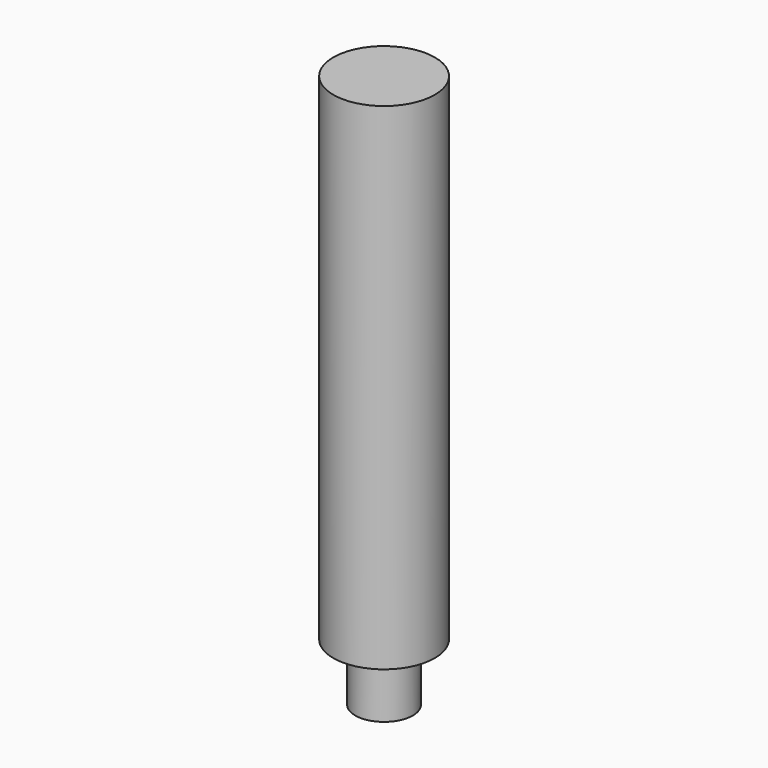
from build123d import *

# Parameters (mm, degrees)
F0_R     = 13.97
F1_DEPTH = 152.4
F2_R     = 13.97
F2_R_2   = 7.9375
F3_DEPTH = 15.875
F4_R     = 3.96875
F5_DEPTH = 127


with BuildPart() as f1:
    # F0 (on Top) → F1 (new body)
    with BuildSketch(Plane.XY):
        Circle(F0_R)
    extrude(amount=F1_DEPTH)

    # F2 (on face) → F3 (cut)
    with BuildSketch(Plane(origin=(0, 0, 0), x_dir=(1, 0, 0), z_dir=(0, 0, -1))):
        Circle(F2_R)
        Circle(F2_R_2, mode=Mode.SUBTRACT)
    extrude(amount=-F3_DEPTH, mode=Mode.SUBTRACT)

    # F4 (on face) → F5 (cut)
    with BuildSketch(Plane(origin=(0, 0, 0), x_dir=(1, 0, 0), z_dir=(0, 0, -1))):
        Circle(F4_R)
    extrude(amount=-F5_DEPTH, mode=Mode.SUBTRACT)


solid = f1.part
